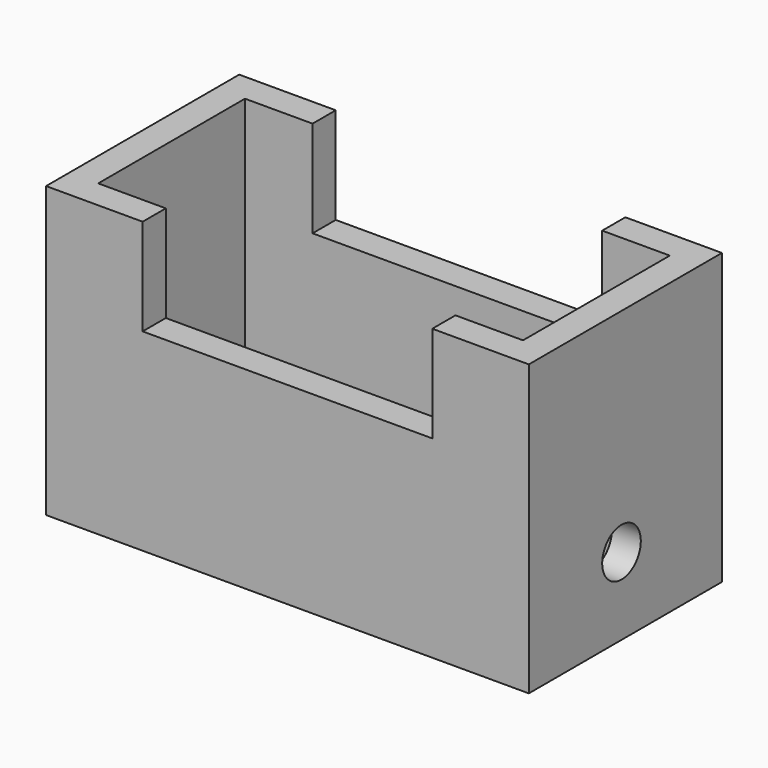
from build123d import *

# Parameters (mm, degrees)
F0_W     = 127
F0_H     = 76.2
F1_DEPTH = 63.5
F2_W     = 76.2
F2_H     = 25.4
F3_DEPTH = 75.184
F4_W     = 111.76
F4_H     = 48.26
F5_DEPTH = 86.868
F6_R     = 6.35
F7_DEPTH = 142.748


with BuildPart() as f1:
    # F0 (on Front) → F1 (new body)
    with BuildSketch(Plane.XZ):
        Rectangle(F0_W, F0_H)
    extrude(amount=F1_DEPTH)

    # F2 (on face) → F3 (cut)
    with BuildSketch(Plane.XZ.offset(63.5)):
        with Locations((0, 25.4)):
            Rectangle(F2_W, F2_H)
    extrude(amount=-F3_DEPTH, mode=Mode.SUBTRACT)

    # F4 (on face) → F5 (cut)
    with BuildSketch(Plane.XY.offset(38.1)):
        with Locations((0, -31.75)):
            Rectangle(F4_W, F4_H)
    extrude(amount=-F5_DEPTH, mode=Mode.SUBTRACT)

    # F6 (on face) → F7 (cut)
    with BuildSketch(Plane.YZ.offset(63.5)):
        with Locations((-33.02, -17.78)):
            Circle(F6_R)
    extrude(amount=-F7_DEPTH, mode=Mode.SUBTRACT)


solid = f1.part
